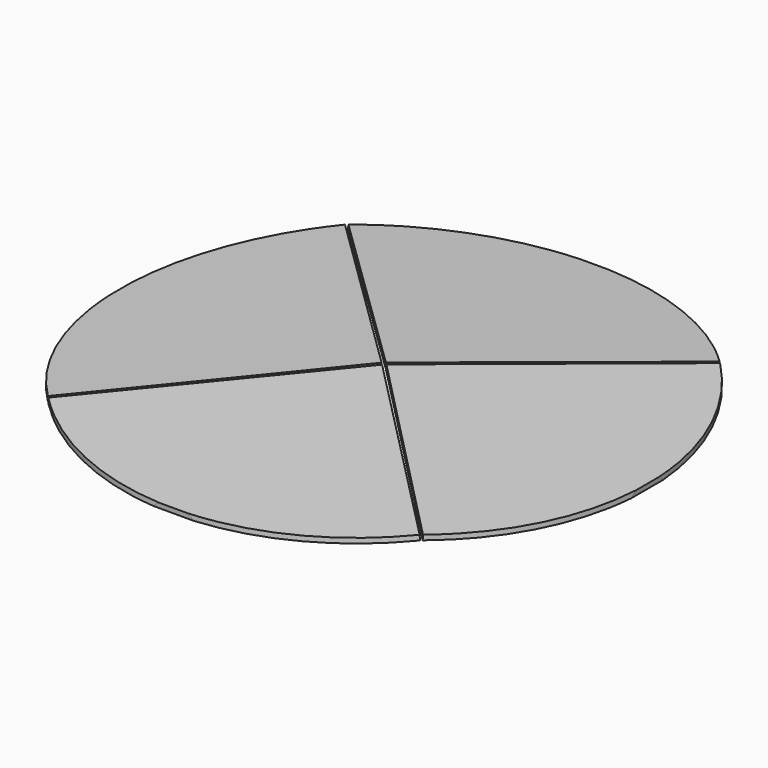
from build123d import *

# Parameters (mm, degrees)
F0_R     = 1050
F1_DEPTH = 100
F4_DEPTH = 1100
F7_DEPTH = 250
F8_COUNT = 4


with BuildPart() as f1:
    # F0 (on Top) → F1 (new body)
    with BuildSketch(Plane.XY):
        Circle(F0_R)
    extrude(amount=F1_DEPTH)

    # F2 (on Front) → F4 (cut, symmetric)
    with BuildSketch(Plane.XZ):
        Polygon((0, 80), (0, 0), (0, -20), (1060, -20), (1060, 120.0583038497), (0, 120.0583038497), (0, 100.0583038497), (1048.4717547436, 19.9418656232), (1046.9479452198, 0), align=None)
    extrude(amount=F4_DEPTH, both=True, mode=Mode.SUBTRACT)

    # F6 (on offset) → F7 (cut, symmetric)
    with BuildSketch(Plane(origin=(9.5060923804, 0, 124.4047985593), x_dir=(0.9970932812, 0, -0.0761904762), z_dir=(0.0761904762, 0, 0.9970932812))):
        Polygon((2, 0), (1102, 1100), (-1198, 1100), (-1198, -1100), (1102, -1100), align=None)
    extrude(amount=F7_DEPTH, both=True, mode=Mode.SUBTRACT)


with BuildPart() as f8_1:
    # F8: instance of F1
    add(f1.part.rotate(Axis((0, 0, 0), (0, 0, 1)), 1 * 360 / F8_COUNT))


with BuildPart() as f8_2:
    # F8: instance of F1
    add(f1.part.rotate(Axis((0, 0, 0), (0, 0, 1)), 2 * 360 / F8_COUNT))


with BuildPart() as f8_3:
    # F8: instance of F1
    add(f1.part.rotate(Axis((0, 0, 0), (0, 0, 1)), 3 * 360 / F8_COUNT))


solid = Compound([f1.part, f8_1.part, f8_2.part, f8_3.part])
